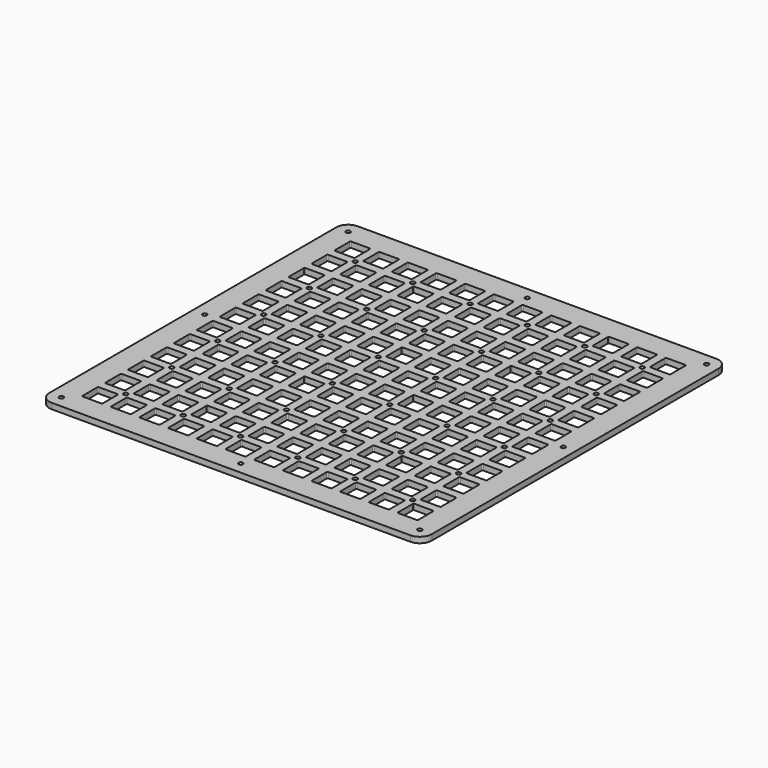
from build123d import *

# Parameters (mm, degrees)
SKETCH_W                           = 200
SKETCH_H                           = 200
PAD_DEPTH                          = 3
POCKET_DEPTH                       = 568.718244
POCKET_LINEARPATTERN_2_DEPTH       = 568.718244
POCKET_LINEARPATTERN_3_DEPTH       = 568.718244
POCKET_LINEARPATTERN_4_DEPTH       = 568.718244
POCKET_LINEARPATTERN_5_DEPTH       = 568.718244
POCKET_LINEARPATTERN_6_DEPTH       = 568.718244
POCKET_LINEARPATTERN_7_DEPTH       = 568.718244
POCKET_LINEARPATTERN_8_DEPTH       = 568.718244
POCKET_LINEARPATTERN_9_DEPTH       = 568.718244
POCKET_LINEARPATTERN_10_DEPTH      = 568.718244
POCKET_LINEARPATTERN_11_DEPTH      = 568.718244
POCKET_LINEARPATTERN_12_DEPTH      = 568.718244
LINEARPATTERN001_COUNT             = 12
LINEARPATTERN001_PITCH             = 15
SKETCH002_R                        = 1.15
POCKET001_DEPTH                    = 568.718244
SKETCH002_LINEARPATTERN002_2_R     = 1.15
POCKET001_LINEARPATTERN002_2_DEPTH = 568.718244
SKETCH002_LINEARPATTERN002_3_R     = 1.15
POCKET001_LINEARPATTERN002_3_DEPTH = 568.718244
LINEARPATTERN003_COUNT             = 3
LINEARPATTERN003_PITCH             = 60
SKETCH003_R                        = 1.15
POCKET002_DEPTH                    = 568.718244
SKETCH003_LINEARPATTERN004_2_R     = 1.15
POCKET002_LINEARPATTERN004_2_DEPTH = 568.718244
POLARPATTERN_COUNT                 = 4
FILLET_R                           = 6.25


with BuildPart() as part:
    # Sketch → Pad (new body)
    with BuildSketch(Plane.XY):
        with Locations((87.5, 87.5)):
            Rectangle(SKETCH_W, SKETCH_H)
    extrude(amount=-PAD_DEPTH)

    # Sketch001 → Pocket (cut, through all)
    with BuildSketch(Plane.XY):
        with BuildLine():
            Line((0.2, -0.3), (9.8, -0.3))
            ThreePointArc((9.8, -0.3), (10.153553, -0.153553), (10.3, 0.2))
            Line((10.3, 0.2), (10.3, 9.8))
            ThreePointArc((10.3, 9.8), (10.153553, 10.153553), (9.8, 10.3))
            Line((9.8, 10.3), (0.2, 10.3))
            ThreePointArc((0.2, 10.3), (-0.153553, 10.153553), (-0.3, 9.8))
            Line((-0.3, 9.8), (-0.3, 0.2))
            ThreePointArc((-0.3, 0.2), (-0.153553, -0.153553), (0.2, -0.3))
        make_face()
    pocket = extrude(amount=-POCKET_DEPTH, mode=Mode.SUBTRACT)

    # Sketch001 LinearPattern 2 → Pocket LinearPattern 2 (cut, through all)
    with BuildSketch(Plane(origin=(15, 0, 0), x_dir=(1, 0, 0), z_dir=(0, 0, 1))):
        with BuildLine():
            Line((0.2, -0.3), (9.8, -0.3))
            ThreePointArc((9.8, -0.3), (10.153553, -0.153553), (10.3, 0.2))
            Line((10.3, 0.2), (10.3, 9.8))
            ThreePointArc((10.3, 9.8), (10.153553, 10.153553), (9.8, 10.3))
            Line((9.8, 10.3), (0.2, 10.3))
            ThreePointArc((0.2, 10.3), (-0.153553, 10.153553), (-0.3, 9.8))
            Line((-0.3, 9.8), (-0.3, 0.2))
            ThreePointArc((-0.3, 0.2), (-0.153553, -0.153553), (0.2, -0.3))
        make_face()
    pocket_linearpattern_2 = extrude(amount=-POCKET_LINEARPATTERN_2_DEPTH, mode=Mode.SUBTRACT)

    # Sketch001 LinearPattern 3 → Pocket LinearPattern 3 (cut, through all)
    with BuildSketch(Plane(origin=(30, 0, 0), x_dir=(1, 0, 0), z_dir=(0, 0, 1))):
        with BuildLine():
            Line((0.2, -0.3), (9.8, -0.3))
            ThreePointArc((9.8, -0.3), (10.153553, -0.153553), (10.3, 0.2))
            Line((10.3, 0.2), (10.3, 9.8))
            ThreePointArc((10.3, 9.8), (10.153553, 10.153553), (9.8, 10.3))
            Line((9.8, 10.3), (0.2, 10.3))
            ThreePointArc((0.2, 10.3), (-0.153553, 10.153553), (-0.3, 9.8))
            Line((-0.3, 9.8), (-0.3, 0.2))
            ThreePointArc((-0.3, 0.2), (-0.153553, -0.153553), (0.2, -0.3))
        make_face()
    pocket_linearpattern_3 = extrude(amount=-POCKET_LINEARPATTERN_3_DEPTH, mode=Mode.SUBTRACT)

    # Sketch001 LinearPattern 4 → Pocket LinearPattern 4 (cut, through all)
    with BuildSketch(Plane(origin=(45, 0, 0), x_dir=(1, 0, 0), z_dir=(0, 0, 1))):
        with BuildLine():
            Line((0.2, -0.3), (9.8, -0.3))
            ThreePointArc((9.8, -0.3), (10.153553, -0.153553), (10.3, 0.2))
            Line((10.3, 0.2), (10.3, 9.8))
            ThreePointArc((10.3, 9.8), (10.153553, 10.153553), (9.8, 10.3))
            Line((9.8, 10.3), (0.2, 10.3))
            ThreePointArc((0.2, 10.3), (-0.153553, 10.153553), (-0.3, 9.8))
            Line((-0.3, 9.8), (-0.3, 0.2))
            ThreePointArc((-0.3, 0.2), (-0.153553, -0.153553), (0.2, -0.3))
        make_face()
    pocket_linearpattern_4 = extrude(amount=-POCKET_LINEARPATTERN_4_DEPTH, mode=Mode.SUBTRACT)

    # Sketch001 LinearPattern 5 → Pocket LinearPattern 5 (cut, through all)
    with BuildSketch(Plane(origin=(60, 0, 0), x_dir=(1, 0, 0), z_dir=(0, 0, 1))):
        with BuildLine():
            Line((0.2, -0.3), (9.8, -0.3))
            ThreePointArc((9.8, -0.3), (10.153553, -0.153553), (10.3, 0.2))
            Line((10.3, 0.2), (10.3, 9.8))
            ThreePointArc((10.3, 9.8), (10.153553, 10.153553), (9.8, 10.3))
            Line((9.8, 10.3), (0.2, 10.3))
            ThreePointArc((0.2, 10.3), (-0.153553, 10.153553), (-0.3, 9.8))
            Line((-0.3, 9.8), (-0.3, 0.2))
            ThreePointArc((-0.3, 0.2), (-0.153553, -0.153553), (0.2, -0.3))
        make_face()
    pocket_linearpattern_5 = extrude(amount=-POCKET_LINEARPATTERN_5_DEPTH, mode=Mode.SUBTRACT)

    # Sketch001 LinearPattern 6 → Pocket LinearPattern 6 (cut, through all)
    with BuildSketch(Plane(origin=(75, 0, 0), x_dir=(1, 0, 0), z_dir=(0, 0, 1))):
        with BuildLine():
            Line((0.2, -0.3), (9.8, -0.3))
            ThreePointArc((9.8, -0.3), (10.153553, -0.153553), (10.3, 0.2))
            Line((10.3, 0.2), (10.3, 9.8))
            ThreePointArc((10.3, 9.8), (10.153553, 10.153553), (9.8, 10.3))
            Line((9.8, 10.3), (0.2, 10.3))
            ThreePointArc((0.2, 10.3), (-0.153553, 10.153553), (-0.3, 9.8))
            Line((-0.3, 9.8), (-0.3, 0.2))
            ThreePointArc((-0.3, 0.2), (-0.153553, -0.153553), (0.2, -0.3))
        make_face()
    pocket_linearpattern_6 = extrude(amount=-POCKET_LINEARPATTERN_6_DEPTH, mode=Mode.SUBTRACT)

    # Sketch001 LinearPattern 7 → Pocket LinearPattern 7 (cut, through all)
    with BuildSketch(Plane(origin=(90, 0, 0), x_dir=(1, 0, 0), z_dir=(0, 0, 1))):
        with BuildLine():
            Line((0.2, -0.3), (9.8, -0.3))
            ThreePointArc((9.8, -0.3), (10.153553, -0.153553), (10.3, 0.2))
            Line((10.3, 0.2), (10.3, 9.8))
            ThreePointArc((10.3, 9.8), (10.153553, 10.153553), (9.8, 10.3))
            Line((9.8, 10.3), (0.2, 10.3))
            ThreePointArc((0.2, 10.3), (-0.153553, 10.153553), (-0.3, 9.8))
            Line((-0.3, 9.8), (-0.3, 0.2))
            ThreePointArc((-0.3, 0.2), (-0.153553, -0.153553), (0.2, -0.3))
        make_face()
    pocket_linearpattern_7 = extrude(amount=-POCKET_LINEARPATTERN_7_DEPTH, mode=Mode.SUBTRACT)

    # Sketch001 LinearPattern 8 → Pocket LinearPattern 8 (cut, through all)
    with BuildSketch(Plane(origin=(105, 0, 0), x_dir=(1, 0, 0), z_dir=(0, 0, 1))):
        with BuildLine():
            Line((0.2, -0.3), (9.8, -0.3))
            ThreePointArc((9.8, -0.3), (10.153553, -0.153553), (10.3, 0.2))
            Line((10.3, 0.2), (10.3, 9.8))
            ThreePointArc((10.3, 9.8), (10.153553, 10.153553), (9.8, 10.3))
            Line((9.8, 10.3), (0.2, 10.3))
            ThreePointArc((0.2, 10.3), (-0.153553, 10.153553), (-0.3, 9.8))
            Line((-0.3, 9.8), (-0.3, 0.2))
            ThreePointArc((-0.3, 0.2), (-0.153553, -0.153553), (0.2, -0.3))
        make_face()
    pocket_linearpattern_8 = extrude(amount=-POCKET_LINEARPATTERN_8_DEPTH, mode=Mode.SUBTRACT)

    # Sketch001 LinearPattern 9 → Pocket LinearPattern 9 (cut, through all)
    with BuildSketch(Plane(origin=(120, 0, 0), x_dir=(1, 0, 0), z_dir=(0, 0, 1))):
        with BuildLine():
            Line((0.2, -0.3), (9.8, -0.3))
            ThreePointArc((9.8, -0.3), (10.153553, -0.153553), (10.3, 0.2))
            Line((10.3, 0.2), (10.3, 9.8))
            ThreePointArc((10.3, 9.8), (10.153553, 10.153553), (9.8, 10.3))
            Line((9.8, 10.3), (0.2, 10.3))
            ThreePointArc((0.2, 10.3), (-0.153553, 10.153553), (-0.3, 9.8))
            Line((-0.3, 9.8), (-0.3, 0.2))
            ThreePointArc((-0.3, 0.2), (-0.153553, -0.153553), (0.2, -0.3))
        make_face()
    pocket_linearpattern_9 = extrude(amount=-POCKET_LINEARPATTERN_9_DEPTH, mode=Mode.SUBTRACT)

    # Sketch001 LinearPattern 10 → Pocket LinearPattern 10 (cut, through all)
    with BuildSketch(Plane(origin=(135, 0, 0), x_dir=(1, 0, 0), z_dir=(0, 0, 1))):
        with BuildLine():
            Line((0.2, -0.3), (9.8, -0.3))
            ThreePointArc((9.8, -0.3), (10.153553, -0.153553), (10.3, 0.2))
            Line((10.3, 0.2), (10.3, 9.8))
            ThreePointArc((10.3, 9.8), (10.153553, 10.153553), (9.8, 10.3))
            Line((9.8, 10.3), (0.2, 10.3))
            ThreePointArc((0.2, 10.3), (-0.153553, 10.153553), (-0.3, 9.8))
            Line((-0.3, 9.8), (-0.3, 0.2))
            ThreePointArc((-0.3, 0.2), (-0.153553, -0.153553), (0.2, -0.3))
        make_face()
    pocket_linearpattern_10 = extrude(amount=-POCKET_LINEARPATTERN_10_DEPTH, mode=Mode.SUBTRACT)

    # Sketch001 LinearPattern 11 → Pocket LinearPattern 11 (cut, through all)
    with BuildSketch(Plane(origin=(150, 0, 0), x_dir=(1, 0, 0), z_dir=(0, 0, 1))):
        with BuildLine():
            Line((0.2, -0.3), (9.8, -0.3))
            ThreePointArc((9.8, -0.3), (10.153553, -0.153553), (10.3, 0.2))
            Line((10.3, 0.2), (10.3, 9.8))
            ThreePointArc((10.3, 9.8), (10.153553, 10.153553), (9.8, 10.3))
            Line((9.8, 10.3), (0.2, 10.3))
            ThreePointArc((0.2, 10.3), (-0.153553, 10.153553), (-0.3, 9.8))
            Line((-0.3, 9.8), (-0.3, 0.2))
            ThreePointArc((-0.3, 0.2), (-0.153553, -0.153553), (0.2, -0.3))
        make_face()
    pocket_linearpattern_11 = extrude(amount=-POCKET_LINEARPATTERN_11_DEPTH, mode=Mode.SUBTRACT)

    # Sketch001 LinearPattern 12 → Pocket LinearPattern 12 (cut, through all)
    with BuildSketch(Plane(origin=(165, 0, 0), x_dir=(1, 0, 0), z_dir=(0, 0, 1))):
        with BuildLine():
            Line((0.2, -0.3), (9.8, -0.3))
            ThreePointArc((9.8, -0.3), (10.153553, -0.153553), (10.3, 0.2))
            Line((10.3, 0.2), (10.3, 9.8))
            ThreePointArc((10.3, 9.8), (10.153553, 10.153553), (9.8, 10.3))
            Line((9.8, 10.3), (0.2, 10.3))
            ThreePointArc((0.2, 10.3), (-0.153553, 10.153553), (-0.3, 9.8))
            Line((-0.3, 9.8), (-0.3, 0.2))
            ThreePointArc((-0.3, 0.2), (-0.153553, -0.153553), (0.2, -0.3))
        make_face()
    pocket_linearpattern_12 = extrude(amount=-POCKET_LINEARPATTERN_12_DEPTH, mode=Mode.SUBTRACT)

    # LinearPattern001: Pocket, Pocket LinearPattern 2, Pocket LinearPattern 3, Pocket LinearPattern 4, Pocket LinearPattern 5, Pocket LinearPattern 6, Pocket LinearPattern 7, Pocket LinearPattern 8, Pocket LinearPattern 9, Pocket LinearPattern 10, Pocket LinearPattern 11, Pocket LinearPattern 12 ×12
    with Locations(*[(0, i * LINEARPATTERN001_PITCH, 0) for i in range(1, LINEARPATTERN001_COUNT)]):
        add(pocket, mode=Mode.SUBTRACT)
        add(pocket_linearpattern_2, mode=Mode.SUBTRACT)
        add(pocket_linearpattern_3, mode=Mode.SUBTRACT)
        add(pocket_linearpattern_4, mode=Mode.SUBTRACT)
        add(pocket_linearpattern_5, mode=Mode.SUBTRACT)
        add(pocket_linearpattern_6, mode=Mode.SUBTRACT)
        add(pocket_linearpattern_7, mode=Mode.SUBTRACT)
        add(pocket_linearpattern_8, mode=Mode.SUBTRACT)
        add(pocket_linearpattern_9, mode=Mode.SUBTRACT)
        add(pocket_linearpattern_10, mode=Mode.SUBTRACT)
        add(pocket_linearpattern_11, mode=Mode.SUBTRACT)
        add(pocket_linearpattern_12, mode=Mode.SUBTRACT)

    # Sketch002 → Pocket001 (cut, through all)
    with BuildSketch(Plane.XY):
        with Locations((12.5, 12.5)):
            Circle(SKETCH002_R)
        with Locations((12.5, 42.5)):
            Circle(SKETCH002_R)
        with Locations((42.5, 42.5)):
            Circle(SKETCH002_R)
        with Locations((42.5, 12.5)):
            Circle(SKETCH002_R)
    pocket001 = extrude(amount=-POCKET001_DEPTH, mode=Mode.SUBTRACT)

    # Sketch002 LinearPattern002 2 → Pocket001 LinearPattern002 2 (cut, through all)
    with BuildSketch(Plane(origin=(60, 0, 0), x_dir=(1, 0, 0), z_dir=(0, 0, 1))):
        with Locations((12.5, 12.5)):
            Circle(SKETCH002_LINEARPATTERN002_2_R)
        with Locations((12.5, 42.5)):
            Circle(SKETCH002_LINEARPATTERN002_2_R)
        with Locations((42.5, 42.5)):
            Circle(SKETCH002_LINEARPATTERN002_2_R)
        with Locations((42.5, 12.5)):
            Circle(SKETCH002_LINEARPATTERN002_2_R)
    pocket001_linearpattern002_2 = extrude(amount=-POCKET001_LINEARPATTERN002_2_DEPTH, mode=Mode.SUBTRACT)

    # Sketch002 LinearPattern002 3 → Pocket001 LinearPattern002 3 (cut, through all)
    with BuildSketch(Plane(origin=(120, 0, 0), x_dir=(1, 0, 0), z_dir=(0, 0, 1))):
        with Locations((12.5, 12.5)):
            Circle(SKETCH002_LINEARPATTERN002_3_R)
        with Locations((12.5, 42.5)):
            Circle(SKETCH002_LINEARPATTERN002_3_R)
        with Locations((42.5, 42.5)):
            Circle(SKETCH002_LINEARPATTERN002_3_R)
        with Locations((42.5, 12.5)):
            Circle(SKETCH002_LINEARPATTERN002_3_R)
    pocket001_linearpattern002_3 = extrude(amount=-POCKET001_LINEARPATTERN002_3_DEPTH, mode=Mode.SUBTRACT)

    # LinearPattern003: Pocket001, Pocket001 LinearPattern002 2, Pocket001 LinearPattern002 3 ×3
    with Locations(*[(0, i * LINEARPATTERN003_PITCH, 0) for i in range(1, LINEARPATTERN003_COUNT)]):
        add(pocket001, mode=Mode.SUBTRACT)
        add(pocket001_linearpattern002_2, mode=Mode.SUBTRACT)
        add(pocket001_linearpattern002_3, mode=Mode.SUBTRACT)

    # Sketch003 → Pocket002 (cut, through all)
    with BuildSketch(Plane(origin=(87.5, 87.5, 0), x_dir=(1, 0, 0), z_dir=(0, 0, 1))):
        with Locations((-93.75, -93.75)):
            Circle(SKETCH003_R)
    pocket002 = extrude(amount=-POCKET002_DEPTH, mode=Mode.SUBTRACT)

    # Sketch003 LinearPattern004 2 → Pocket002 LinearPattern004 2 (cut, through all)
    with BuildSketch(Plane(origin=(181.25, 87.5, 0), x_dir=(1, 0, 0), z_dir=(0, 0, 1))):
        with Locations((-93.75, -93.75)):
            Circle(SKETCH003_LINEARPATTERN004_2_R)
    pocket002_linearpattern004_2 = extrude(amount=-POCKET002_LINEARPATTERN004_2_DEPTH, mode=Mode.SUBTRACT)

    # PolarPattern: Pocket002, Pocket002 LinearPattern004 2 ×4 about axis
    polarpattern_axis = Axis((87.5, 87.5, 0), (0, 0, 1))
    for i in range(1, POLARPATTERN_COUNT):
        add(pocket002.rotate(polarpattern_axis, i * 360 / POLARPATTERN_COUNT), mode=Mode.SUBTRACT)
        add(pocket002_linearpattern004_2.rotate(polarpattern_axis, i * 360 / POLARPATTERN_COUNT), mode=Mode.SUBTRACT)

    # Fillet
    fillet_edges = [part.edges().sort_by_distance(p)[0] for p in [
        (-12.5, 187.5, -1.5),
        (-12.5, -12.5, -1.5),
        (187.5, -12.5, -1.5),
        (187.5, 187.5, -1.5),
    ]]
    fillet(fillet_edges, radius=FILLET_R)


solid = part.part
